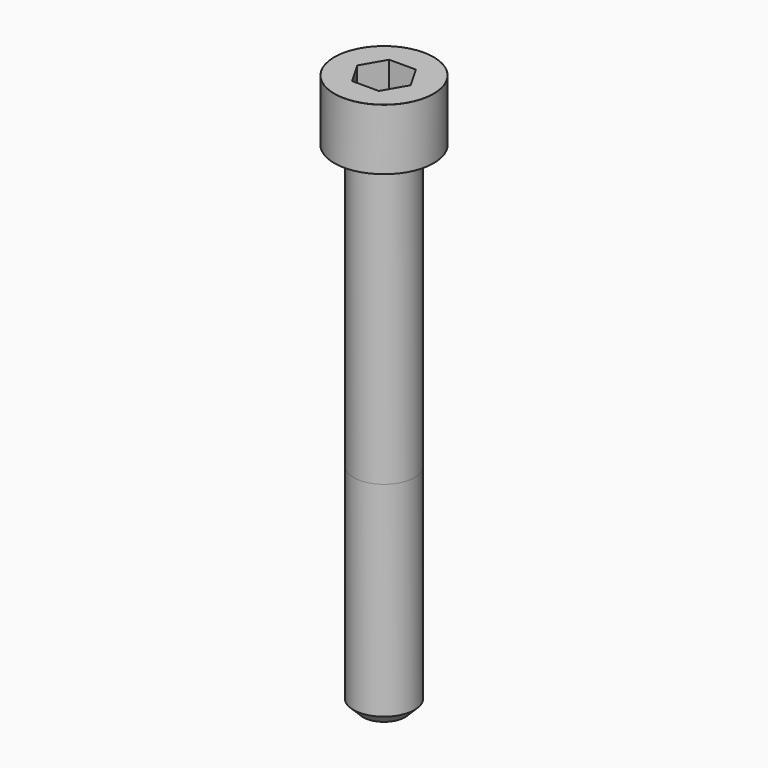
from build123d import *

# Parameters (mm, degrees)
POCKET_DEPTH = 6.06


with BuildPart() as part:
    # Sketch → Revolve (revolve)
    with BuildSketch(Plane.YZ):
        with BuildLine():
            Line((3.999, 0), (6.5, 0))
            Line((6.5, 0), (6.5, 7.97229))
            ThreePointArc((6.5, 7.97229), (6.491884, 7.991884), (6.47229, 8))
            Line((6.47229, 8), (0, 8))
            Line((0, -65), (0, 8))
            Line((2.75, -65), (0, -65))
            Line((4, -63.75), (2.75, -65))
            Line((4, -37), (4, -63.75))
            Line((3.999, 0), (4, -37))
        make_face()
    revolve(axis=Axis((0, 0, 0), (0, 0, 1)))

    # Sketch001 → Pocket (cut)
    with BuildSketch(Plane.XY.offset(8)):
        Polygon((3.498743, 0), (1.749371, 3.03), (-1.749371, 3.03), (-3.498743, 0), (-1.749371, -3.03), (1.749371, -3.03), align=None)
    extrude(amount=-POCKET_DEPTH, mode=Mode.SUBTRACT)


solid = part.part
